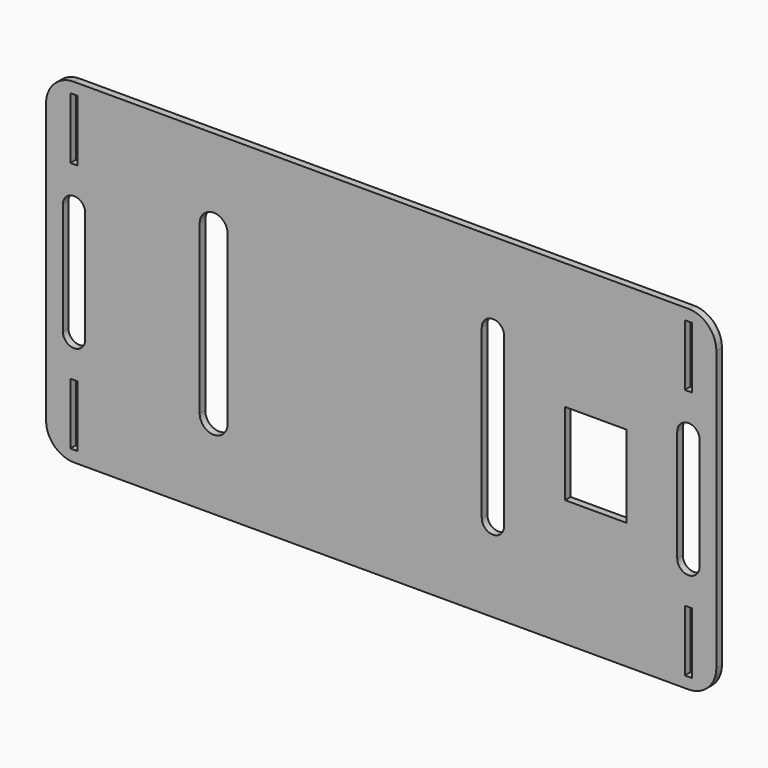
from build123d import *

# Parameters (mm, degrees)
F1_DEPTH = 3.175
F2_W     = 27.94
F2_H     = 37.338
F2_W_2   = 3.302
F2_H_2   = 27.94
F3_DEPTH = 25.4


with BuildPart() as f1:
    # F0 (on Front) → F1 (new body)
    with BuildSketch(Plane.XZ):
        with BuildLine():
            ThreePointArc((152.4, 63.5), (148.680256, 72.480256), (139.7, 76.2))
            Line((139.7, 76.2), (-139.7, 76.2))
            ThreePointArc((-139.7, 76.2), (-148.680256, 72.480256), (-152.4, 63.5))
            Line((-152.4, 63.5), (-152.4, -63.5))
            ThreePointArc((-152.4, -63.5), (-148.680256, -72.480256), (-139.7, -76.2))
            Line((-139.7, -76.2), (139.7, -76.2))
            ThreePointArc((139.7, -76.2), (148.680256, -72.480256), (152.4, -63.5))
            Line((152.4, -63.5), (152.4, 63.5))
        make_face()
    extrude(amount=F1_DEPTH)

    # F2 (on face) → F3 (cut)
    with BuildSketch(Plane.XZ.offset(3.175)):
        with BuildLine():
            ThreePointArc((-144.78, -25.4), (-139.7, -30.48), (-134.62, -25.4))
            Line((-134.62, -25.4), (-134.62, 0))
            Line((-134.62, 0), (-134.62, 25.4))
            ThreePointArc((-134.62, 25.4), (-139.7, 30.48), (-144.78, 25.4))
            Line((-144.78, 25.4), (-144.78, 0))
            Line((-144.78, 0), (-144.78, -25.4))
        make_face()
        with BuildLine():
            ThreePointArc((55.88, 38.1), (50.8, 43.18), (45.72, 38.1))
            Line((45.72, 38.1), (45.72, 0))
            Line((45.72, 0), (45.72, -38.1))
            ThreePointArc((45.72, -38.1), (50.8, -43.18), (55.88, -38.1))
            Line((55.88, -38.1), (55.88, 0))
            Line((55.88, 0), (55.88, 38.1))
        make_face()
        with Locations((97.580589, 0)):
            Rectangle(F2_W, F2_H)
        with Locations((-139.7, 57.15)):
            Rectangle(F2_W_2, F2_H_2)
        with Locations((-139.7, -57.15)):
            Rectangle(F2_W_2, F2_H_2)
        with Locations((139.7, 57.15)):
            Rectangle(F2_W_2, F2_H_2)
        with Locations((139.7, -57.15)):
            Rectangle(F2_W_2, F2_H_2)
        with BuildLine():
            Line((134.62, 25.4), (134.62, 0))
            Line((134.62, 0), (134.62, -25.4))
            ThreePointArc((134.62, -25.4), (139.7, -30.48), (144.78, -25.4))
            Line((144.78, -25.4), (144.78, 0))
            Line((144.78, 0), (144.78, 25.4))
            ThreePointArc((144.78, 25.4), (139.7, 30.48), (134.62, 25.4))
        make_face()
        with BuildLine():
            ThreePointArc((-69.85, 38.1), (-76.2, 44.45), (-82.55, 38.1))
            Line((-82.55, 38.1), (-82.55, 0))
            Line((-82.55, 0), (-82.55, -38.1))
            ThreePointArc((-82.55, -38.1), (-76.2, -44.45), (-69.85, -38.1))
            Line((-69.85, -38.1), (-69.85, 0))
            Line((-69.85, 0), (-69.85, 38.1))
        make_face()
    extrude(amount=-F3_DEPTH, mode=Mode.SUBTRACT)


with BuildPart() as f4_1:
    # F4: copy of F1
    add(f1.part)


solid = f1.part
